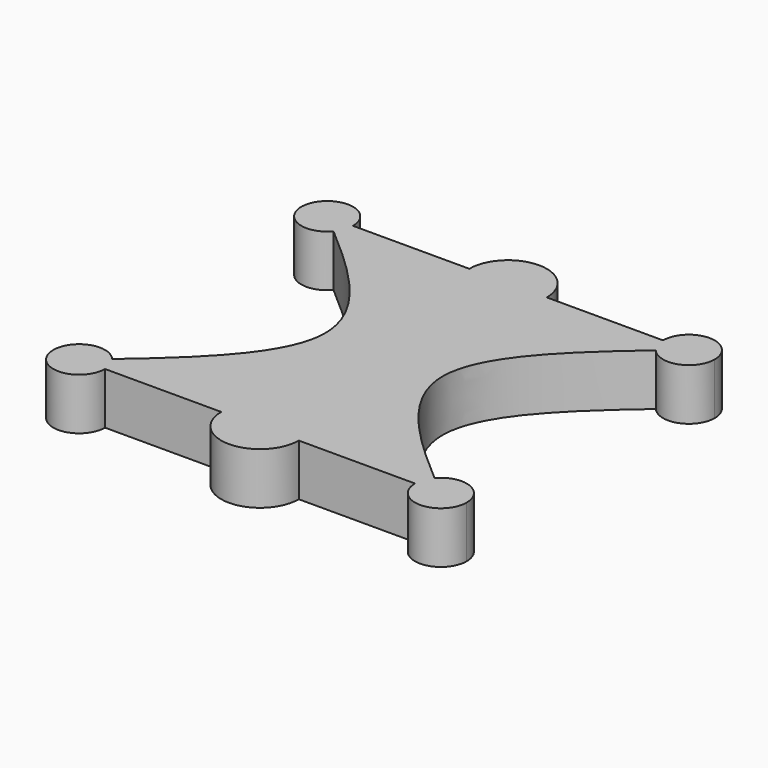
from build123d import *

# Parameters (mm, degrees)
F1_DEPTH = 2


with BuildPart() as f1:
    # F0 (on Top) → F1 (new body)
    with BuildSketch(Plane.XY):
        with BuildLine():
            add(Edge.make_bspline(
                [(-6.237544, -0.64704), (-6.489718, -0.43136), (-6.744859, -0.21568), (-7, 0)],
                knots=[14.458679, 14.458679, 14.458679, 14.458679, 15.282723, 15.282723, 15.282723, 15.282723], degree=3))
            Line((-7, 0), (-6, 0))
            ThreePointArc((-6, 0), (-7.938738, 0.344633), (-6.237544, -0.64704))
        make_face()
        with BuildLine():
            Line((-6, 0), (-7, 0))
            add(Edge.make_bspline(
                [(-6.237544, -0.64704), (-6.489718, -0.43136), (-6.744859, -0.21568), (-7, 0)],
                knots=[14.458679, 14.458679, 14.458679, 14.458679, 15.282723, 15.282723, 15.282723, 15.282723], degree=3))
            ThreePointArc((-6.237544, -0.64704), (-6.061262, -0.344633), (-6, 0))
        make_face()
        with BuildLine():
            Line((-1.5, 0), (-6, 0))
            ThreePointArc((-6, 0), (-6.061262, -0.344633), (-6.237544, -0.64704))
            add(Edge.make_bspline(
                [(-2.26815, -6), (-2.26815, -4.21568), (-4.151307, -2.43136), (-6.237544, -0.64704)],
                knots=[7.641361, 7.641361, 7.641361, 7.641361, 14.458679, 14.458679, 14.458679, 14.458679], degree=3))
            Line((-2.26815, -6), (0, -6))
            Line((0, -6), (0, 0))
            Line((0, 0), (-1.5, 0))
        make_face()
        with BuildLine():
            ThreePointArc((1.5, 0), (0, 1.5), (-1.5, 0))
            Line((-1.5, 0), (0, 0))
            Line((0, 0), (1.5, 0))
        make_face()
        with BuildLine():
            Line((1.5, 0), (0, 0))
            Line((0, 0), (0, -6))
            Line((0, -6), (2.26815, -6))
            add(Edge.make_bspline(
                [(2.26815, -6), (2.26815, -4.21568), (4.151307, -2.43136), (6.237544, -0.64704)],
                knots=[7.641361, 7.641361, 7.641361, 7.641361, 14.458679, 14.458679, 14.458679, 14.458679], degree=3))
            ThreePointArc((6.237544, -0.64704), (6.061262, -0.344633), (6, 0))
            Line((6, 0), (1.5, 0))
        make_face()
        with BuildLine():
            Line((7, 0), (6, 0))
            ThreePointArc((6, 0), (6.061262, -0.344633), (6.237544, -0.64704))
            add(Edge.make_bspline(
                [(6.237544, -0.64704), (6.489718, -0.43136), (6.744859, -0.21568), (7, 0)],
                knots=[14.458679, 14.458679, 14.458679, 14.458679, 15.282723, 15.282723, 15.282723, 15.282723], degree=3))
        make_face()
        with BuildLine():
            ThreePointArc((8, 0), (7, 1), (6, 0))
            Line((6, 0), (7, 0))
            add(Edge.make_bspline(
                [(6.237544, -0.64704), (6.489718, -0.43136), (6.744859, -0.21568), (7, 0)],
                knots=[14.458679, 14.458679, 14.458679, 14.458679, 15.282723, 15.282723, 15.282723, 15.282723], degree=3))
            ThreePointArc((6.237544, -0.64704), (7.344633, -0.938738), (8, 0))
        make_face()
        with BuildLine():
            Line((0, -6), (-2.26815, -6))
            add(Edge.make_bspline(
                [(-6.237544, -11.35296), (-4.151307, -9.56864), (-2.26815, -7.78432), (-2.26815, -6)],
                knots=[0.824044, 0.824044, 0.824044, 0.824044, 7.641361, 7.641361, 7.641361, 7.641361], degree=3))
            ThreePointArc((-6.237544, -11.35296), (-6.061262, -11.655367), (-6, -12))
            Line((-6, -12), (-1.5, -12))
            Line((-1.5, -12), (0, -12))
            Line((0, -12), (0, -6))
        make_face()
        with BuildLine():
            Line((2.26815, -6), (0, -6))
            Line((0, -6), (0, -12))
            Line((0, -12), (1.5, -12))
            Line((1.5, -12), (6, -12))
            ThreePointArc((6, -12), (6.061262, -11.655367), (6.237544, -11.35296))
            add(Edge.make_bspline(
                [(6.237544, -11.35296), (4.151307, -9.56864), (2.26815, -7.78432), (2.26815, -6)],
                knots=[0.824044, 0.824044, 0.824044, 0.824044, 7.641361, 7.641361, 7.641361, 7.641361], degree=3))
        make_face()
        with BuildLine():
            ThreePointArc((-6, -12), (-6.061262, -11.655367), (-6.237544, -11.35296))
            add(Edge.make_bspline(
                [(-7, -12), (-6.744859, -11.78432), (-6.489718, -11.56864), (-6.237544, -11.35296)],
                knots=[0, 0, 0, 0, 0.824044, 0.824044, 0.824044, 0.824044], degree=3))
            Line((-7, -12), (-6, -12))
        make_face()
        with BuildLine():
            add(Edge.make_bspline(
                [(-7, -12), (-6.744859, -11.78432), (-6.489718, -11.56864), (-6.237544, -11.35296)],
                knots=[0, 0, 0, 0, 0.824044, 0.824044, 0.824044, 0.824044], degree=3))
            ThreePointArc((-6.237544, -11.35296), (-7.938738, -12.344633), (-6, -12))
            Line((-6, -12), (-7, -12))
        make_face()
        with BuildLine():
            Line((1.5, -12), (0, -12))
            Line((0, -12), (-1.5, -12))
            ThreePointArc((-1.5, -12), (0, -13.5), (1.5, -12))
        make_face()
        with BuildLine():
            add(Edge.make_bspline(
                [(7, -12), (6.744859, -11.78432), (6.489718, -11.56864), (6.237544, -11.35296)],
                knots=[0, 0, 0, 0, 0.824044, 0.824044, 0.824044, 0.824044], degree=3))
            ThreePointArc((6.237544, -11.35296), (6.061262, -11.655367), (6, -12))
            Line((6, -12), (7, -12))
        make_face()
        with BuildLine():
            ThreePointArc((8, -12), (7.344633, -11.061262), (6.237544, -11.35296))
            add(Edge.make_bspline(
                [(7, -12), (6.744859, -11.78432), (6.489718, -11.56864), (6.237544, -11.35296)],
                knots=[0, 0, 0, 0, 0.824044, 0.824044, 0.824044, 0.824044], degree=3))
            Line((7, -12), (6, -12))
            ThreePointArc((6, -12), (7, -13), (8, -12))
        make_face()
    extrude(amount=F1_DEPTH)


solid = f1.part
